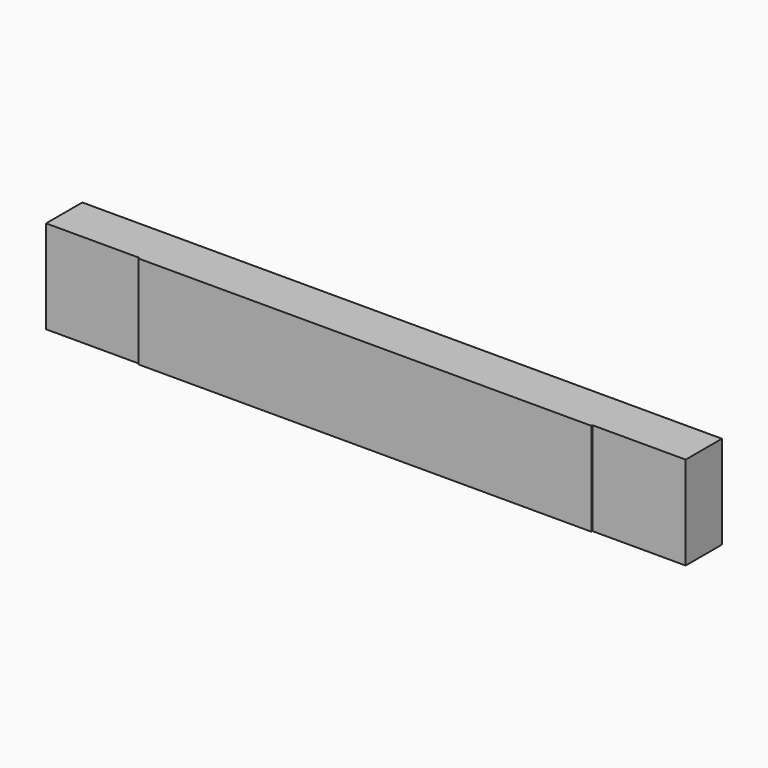
from build123d import *

# Parameters (mm, degrees)
F0_W     = 609.6
F0_H     = 88.9
F1_DEPTH = 44.45
F2_W     = 88.9
F2_H     = 88.9
F3_DEPTH = 1.27
F4_DEPTH = 1.27


with BuildPart() as f1:
    # F0 (on Front) → F1 (new body)
    with BuildSketch(Plane.XZ):
        with Locations((-304.8, 44.45)):
            Rectangle(F0_W, F0_H)
    extrude(amount=F1_DEPTH)

    # F2 (on face) → F3 (cut)
    with BuildSketch(Plane.XZ.offset(44.45)):
        with Locations((-565.15, 44.45)):
            Rectangle(F2_W, F2_H)
    extrude(amount=-F3_DEPTH, mode=Mode.SUBTRACT)

    # F2 (on face) → F4 (cut)
    with BuildSketch(Plane.XZ.offset(44.45)):
        with Locations((-44.45, 44.45)):
            Rectangle(F2_W, F2_H)
    extrude(amount=-F4_DEPTH, mode=Mode.SUBTRACT)


solid = f1.part
